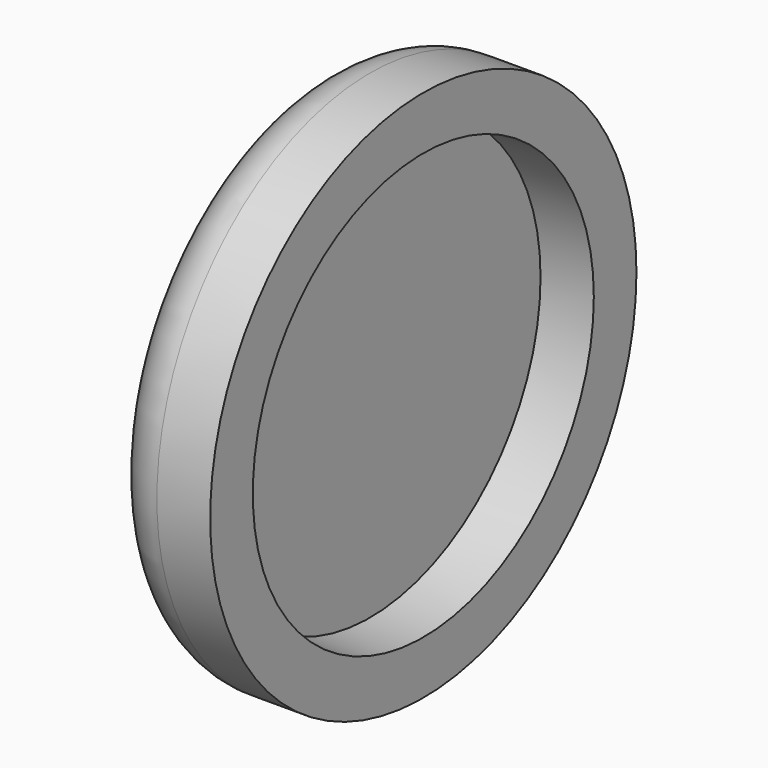
from build123d import *

# Parameters (mm, degrees)
F0_R     = 12.7
F1_DEPTH = 5.08
F2_R     = 2.54
F3_T     = -2.54


with BuildPart() as f1:
    # F0 (on Right) → F1 (new body)
    with BuildSketch(Plane.YZ):
        Circle(F0_R)
    extrude(amount=F1_DEPTH)

    # F2
    f2_edges = [f1.edges().sort_by_distance(p)[0] for p in [
        (0, -12.7, 0),
    ]]
    fillet(f2_edges, radius=F2_R)

    # F3
    f3_openings = [f1.faces().sort_by_distance(p)[0] for p in [
        (5.08, 0, 0),
    ]]
    offset(amount=F3_T, openings=f3_openings, kind=Kind.INTERSECTION)


solid = f1.part
